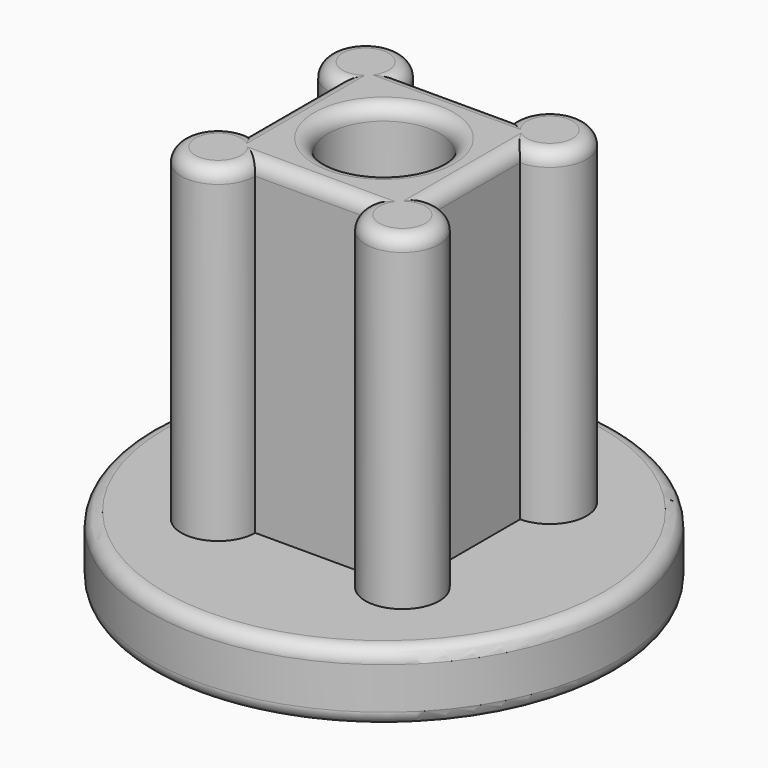
from build123d import *

# Parameters (mm, degrees)
F0_R     = 16.75
F1_DEPTH = 5
F3_DEPTH = 23.5
F4_R     = 4
F5_DEPTH = 28.501
F7_START = 6
F7_DEPTH = 8
F9_COUNT = 3
F11_R    = 1


with BuildPart() as f1:
    # F0 (on Top) → F1 (new body)
    with BuildSketch(Plane.XY):
        Circle(F0_R)
    extrude(amount=F1_DEPTH)

    # F2 (on face) → F3 (join)
    with BuildSketch(Plane.XY.offset(5)):
        with BuildLine():
            Line((3.95, 6.6), (-3.95, 6.6))
            ThreePointArc((-3.95, 6.6), (-8.4738329701, 8.4738329701), (-6.6, 3.95))
            Line((-6.6, 3.95), (-6.6, -3.95))
            ThreePointArc((-6.6, -3.95), (-8.4738329701, -8.4738329701), (-3.95, -6.6))
            Line((-3.95, -6.6), (3.95, -6.6))
            ThreePointArc((3.95, -6.6), (8.4738329701, -8.4738329701), (6.6, -3.95))
            Line((6.6, -3.95), (6.6, 3.95))
            ThreePointArc((6.6, 3.95), (8.4738329701, 8.4738329701), (3.95, 6.6))
        make_face()
    extrude(amount=F3_DEPTH)

    # F4 (on face) → F5 (cut, through all)
    with BuildSketch(Plane(origin=(0, 0, 0), x_dir=(1, 0, 0), z_dir=(0, 0, -1))):
        Circle(F4_R)
    extrude(amount=-F5_DEPTH, mode=Mode.SUBTRACT)


with BuildPart() as f7:
    # F6 (on Right) → F7 (new body)
    with BuildSketch(Plane.YZ.offset(F7_START)):
        Polygon((0, 2), (-2, 0), (2, 0), align=None)
    extrude(amount=F7_DEPTH)


with BuildPart() as f9_1:
    # F9: instance of F7
    add(f7.part.rotate(Axis((0, 0, -0.1442357898), (0, 0, 1)), 1 * 360 / F9_COUNT))


with BuildPart() as f9_2:
    # F9: instance of F7
    add(f7.part.rotate(Axis((0, 0, -0.1442357898), (0, 0, 1)), 2 * 360 / F9_COUNT))


with BuildPart() as f1_1:
    add(f1.part)

    # F10: cut F7, F9_1, F9_2
    add(f7.part, mode=Mode.SUBTRACT)
    add(f9_1.part, mode=Mode.SUBTRACT)
    add(f9_2.part, mode=Mode.SUBTRACT)

    # F11
    f11_edges = [f1_1.edges().sort_by_distance(p)[0] for p in [
        (-16.75, 0, 0),
        (-16.75, 0, 5),
        (0, 6.6, 28.5),
        (-8.473833, 8.473833, 28.5),
        (-6.6, 0, 28.5),
        (-8.473833, -8.473833, 28.5),
        (0, -6.6, 28.5),
        (8.473833, -8.473833, 28.5),
        (6.6, 0, 28.5),
        (8.473833, 8.473833, 28.5),
        (-4, 0, 0),
        (-4, 0, 28.5),
    ]]
    fillet(f11_edges, radius=F11_R)


solid = f1_1.part
